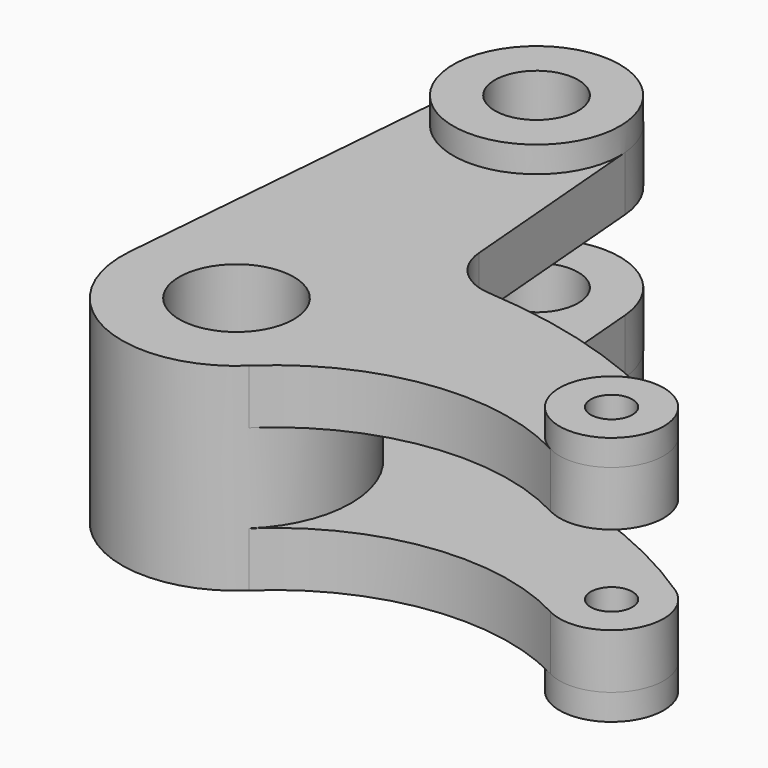
from build123d import *

# Parameters (mm, degrees)
SKETCH_R               = 11
SKETCH_R_2             = 4
SKETCH_R_3             = 8
PAD_DEPTH              = 10.5
SKETCH001_R            = 22
SKETCH001_R_2          = 11
PAD001_DEPTH           = 27.5
SKETCH002_R            = 10
SKETCH002_R_2          = 4
SKETCH002_R_3          = 16
SKETCH002_R_4          = 8
PAD002_DEPTH           = 5
LINEARPATTERN_COUNT    = 2
LINEARPATTERN_PITCH    = 27.5
LINEARPATTERN001_COUNT = 2
LINEARPATTERN001_PITCH = 43


with BuildPart() as part:
    # Sketch → Pad (new body)
    with BuildSketch(Plane.XY):
        with BuildLine():
            ThreePointArc((-21.9234781804, 1.8333315232), (-9.5101896489, -19.8382532709), (15.1592048803, -15.9436039651))
            ThreePointArc((67.303030561, -8.8282771869), (40.0825387761, -3.968716444), (15.1592048803, -15.9436039651))
            ThreePointArc((67.303030561, -8.8282771869), (80.5823809431, -5.1325176421), (77.5552259696, 8.3150143973))
            ThreePointArc((77.5552259696, 8.3150143973), (54.1410477348, 19.8599663381), (28.5366090857, 24.9513688157))
            ThreePointArc((19.2247688114, 34.0968329356), (22.1829562344, 27.7954826606), (28.5366090857, 24.9513688157))
            Line((15.9443712103, 73.3330516519), (19.2247688114, 34.0968329356))
            ThreePointArc((15.9443712103, 73.3330516519), (0.000141406, 87.9999999994), (-15.9443476452, 73.3333334805))
            Line((-15.9443476452, 73.3333334805), (-21.9234781804, 1.8333315232))
        make_face()
        Circle(SKETCH_R, mode=Mode.SUBTRACT)
        with Locations((72, 0)):
            Circle(SKETCH_R_2, mode=Mode.SUBTRACT)
        with Locations((0, 72)):
            Circle(SKETCH_R_3, mode=Mode.SUBTRACT)
    pad = extrude(amount=PAD_DEPTH)

    # Sketch001 (on Face13 of Pad) → Pad001 (join)
    with BuildSketch(Plane.XY.offset(10.5)):
        Circle(SKETCH001_R)
        Circle(SKETCH001_R_2, mode=Mode.SUBTRACT)
    extrude(amount=PAD001_DEPTH)

    # Sketch002 (on Face4 of Pad001) → Pad002 (join)
    with BuildSketch(Plane(origin=(0, 0, 0), x_dir=(1, 0, 0), z_dir=(0, 0, -1))):
        with Locations((72, 0)):
            Circle(SKETCH002_R)
        with Locations((72, 0)):
            Circle(SKETCH002_R_2, mode=Mode.SUBTRACT)
        with Locations((0, -72)):
            Circle(SKETCH002_R_3)
        with Locations((0, -72)):
            Circle(SKETCH002_R_4, mode=Mode.SUBTRACT)
    pad002 = extrude(amount=PAD002_DEPTH)

    # LinearPattern: Pad ×2
    with Locations(*[(0, 0, i * LINEARPATTERN_PITCH) for i in range(1, LINEARPATTERN_COUNT)]):
        add(pad)

    # LinearPattern001: Pad002 ×2
    with Locations(*[(0, 0, i * LINEARPATTERN001_PITCH) for i in range(1, LINEARPATTERN001_COUNT)]):
        add(pad002)


solid = part.part
